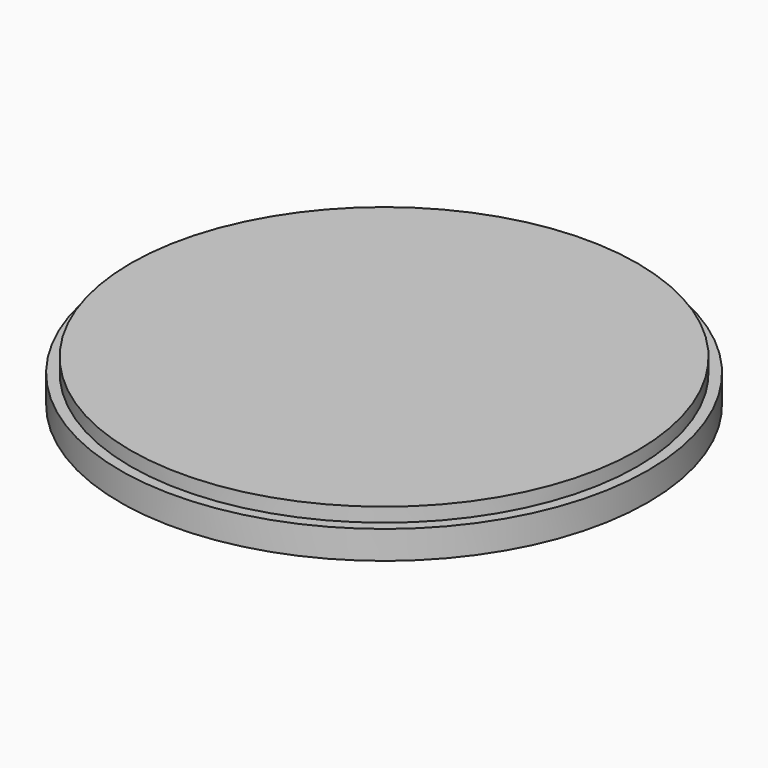
from build123d import *

# Parameters (mm, degrees)
F0_R     = 75
F2_DEPTH = 12
F3_R     = 75
F3_R_2   = 72
F4_DEPTH = 4


with BuildPart() as f2:
    # F0 (on Top) → F2 (new body)
    with BuildSketch(Plane.XY):
        Circle(F0_R)
    extrude(amount=F2_DEPTH)

    # F3 (on face) → F4 (cut)
    with BuildSketch(Plane.XY.offset(12)):
        Circle(F3_R)
        Circle(F3_R_2, mode=Mode.SUBTRACT)
    extrude(amount=-F4_DEPTH, mode=Mode.SUBTRACT)


solid = f2.part
